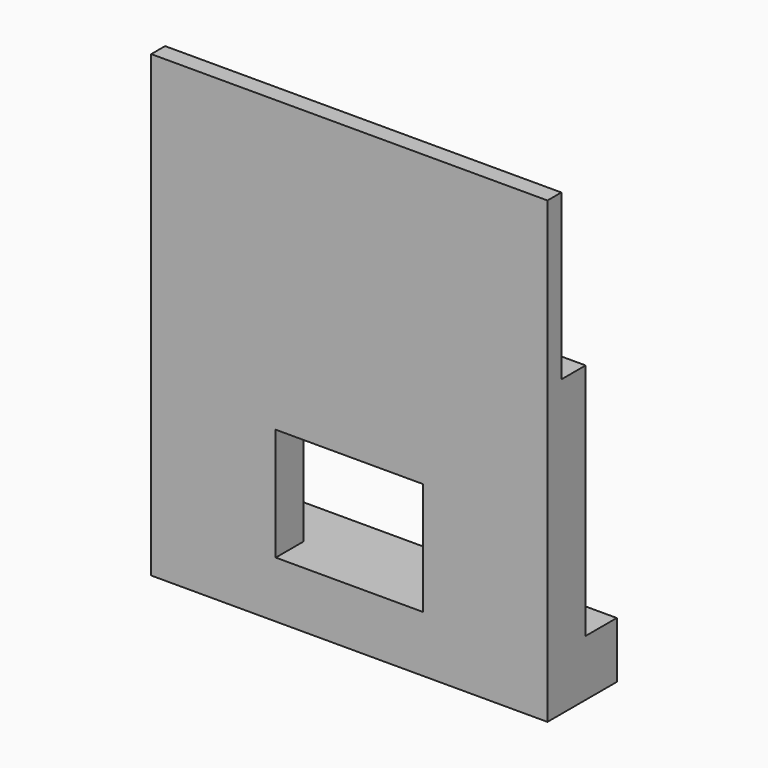
from build123d import *

# Parameters (mm, degrees)
F0_W     = 2324.1
F0_H     = 228.6
F1_DEPTH = 330.2
F0_H_2   = 177.8
F2_DEPTH = 1727.2
F0_H_3   = 101.6
F3_DEPTH = 2692.4
F5_DEPTH = 546.1
F6_DEPTH = 76.2


with BuildPart() as f1:
    # F0 (on Top) → F1 (new body)
    with BuildSketch(Plane.XY):
        with Locations((0, 139.7)):
            Rectangle(F0_W, F0_H)
    extrude(amount=F1_DEPTH)

    # F0 (on Top) → F2 (join)
    with BuildSketch(Plane.XY):
        with Locations((0, -63.5)):
            Rectangle(F0_W, F0_H_2)
    extrude(amount=F2_DEPTH)

    # F0 (on Top) → F3 (join)
    with BuildSketch(Plane.XY):
        with Locations((0, -203.2)):
            Rectangle(F0_W, F0_H_3)
    extrude(amount=F3_DEPTH)

    # F4 (on face) → F5 (cut)
    with BuildSketch(Plane(origin=(0, 25.4, 0), x_dir=(-1, 0, 0), z_dir=(0, 1, 0))):
        Polygon((-431.8, 990.6), (-431.8, 330.2), (431.8, 330.2), (431.8, 990.6), (0, 990.6), align=None)
    extrude(amount=-F5_DEPTH, mode=Mode.SUBTRACT)

    # F4 (on face) → F6 (cut)
    with BuildSketch(Plane(origin=(0, 25.4, 0), x_dir=(-1, 0, 0), z_dir=(0, 1, 0))):
        with BuildLine():
            Line((-533.4, 990.6), (-533.4, 330.2))
            Line((-533.4, 330.2), (-431.8, 330.2))
            Line((-431.8, 330.2), (-431.8, 990.6))
            Line((-431.8, 990.6), (0, 990.6))
            Line((0, 990.6), (0, 1168.4))
            ThreePointArc((0, 1168.4), (-271.494991, 1142.773701), (-533.4, 1066.8))
            Line((-533.4, 1066.8), (-533.4, 990.6))
        make_face()
        with BuildLine():
            Line((431.8, 990.6), (431.8, 330.2))
            Line((431.8, 330.2), (533.4, 330.2))
            Line((533.4, 330.2), (533.4, 990.6))
            Line((533.4, 990.6), (533.4, 1066.8))
            ThreePointArc((533.4, 1066.8), (271.494991, 1142.773701), (0, 1168.4))
            Line((0, 1168.4), (0, 990.6))
            Line((0, 990.6), (431.8, 990.6))
        make_face()
    extrude(amount=-F6_DEPTH, mode=Mode.SUBTRACT)


solid = f1.part
